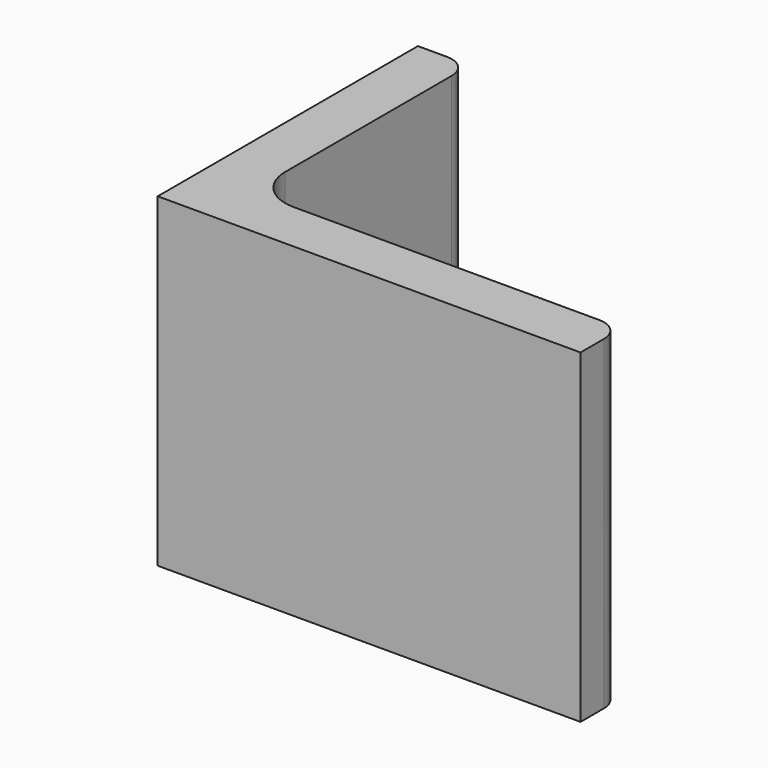
from build123d import *

# Parameters (mm, degrees)
EXTRUDE_DEPTH = 50


with BuildPart() as part:
    # Sketch → Extrude (new body)
    with BuildSketch(Plane.XY):
        with BuildLine():
            Line((0, 0), (65, 0))
            Line((65, 0), (65, 4.5))
            ThreePointArc((65, 4.5), (63.974874, 6.974874), (61.5, 8))
            Line((61.5, 8), (14.5, 8))
            ThreePointArc((8, 14.5), (9.903806, 9.903806), (14.5, 8))
            Line((8, 46.5), (8, 14.5))
            ThreePointArc((8, 46.5), (6.974874, 48.974874), (4.5, 50))
            Line((0, 50), (4.5, 50))
            Line((0, 0), (0, 50))
        make_face()
    extrude(amount=EXTRUDE_DEPTH)


solid = part.part
